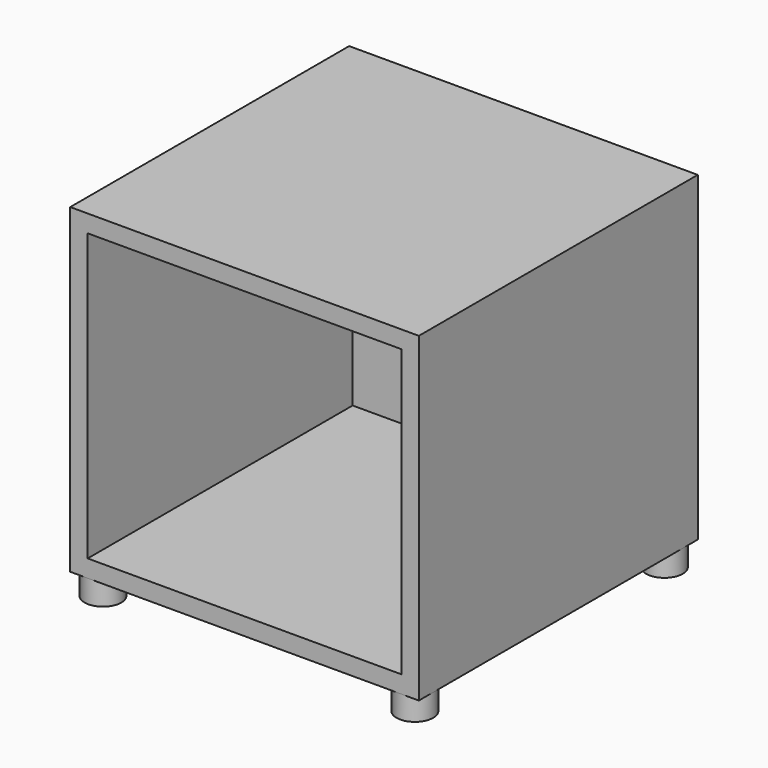
from build123d import *

# Parameters (mm, degrees)
F0_W     = 380
F0_H     = 380
F1_DEPTH = 350
F2_W     = 342
F2_H     = 312
F3_DEPTH = 361
F4_R     = 20
F5_DEPTH = 25


with BuildPart() as f1:
    # F0 (on Top) → F1 (new body)
    with BuildSketch(Plane.XY):
        Rectangle(F0_W, F0_H)
    extrude(amount=F1_DEPTH)

    # F2 (on face) → F3 (cut)
    with BuildSketch(Plane.XZ.offset(190)):
        with Locations((0, 175)):
            Rectangle(F2_W, F2_H)
    extrude(amount=-F3_DEPTH, mode=Mode.SUBTRACT)

    # F4 (on face) → F5 (join)
    with BuildSketch(Plane.XY):
        with Locations((169.437533, -169.759312)):
            Circle(F4_R)
        with Locations((169.437532, 170.240688)):
            Circle(F4_R)
        with Locations((-170.562468, 170.240687)):
            Circle(F4_R)
        with Locations((-170.562467, -169.759313)):
            Circle(F4_R)
    extrude(amount=-F5_DEPTH)


solid = f1.part
